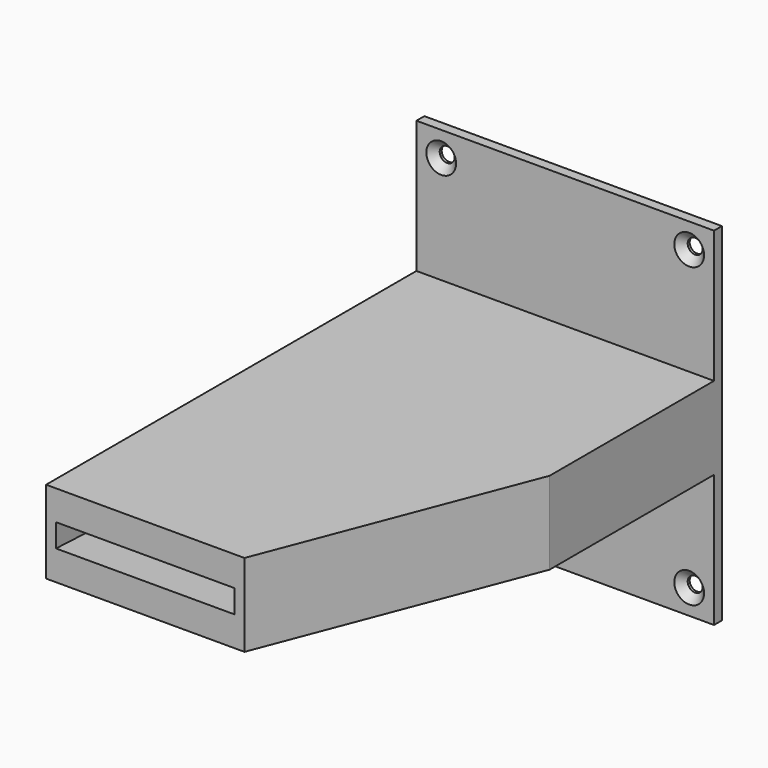
from build123d import *

# Parameters (mm, degrees)
PAD_DEPTH        = 25
SKETCH001_W      = 84
SKETCH001_H      = 19
SKETCH002_W      = 54
SKETCH002_H      = 7
SKETCH003_W      = 88.531874
SKETCH003_H      = 19
POCKET_DEPTH     = 5
SKETCH004_W      = 90
SKETCH004_H      = 105
PAD001_DEPTH     = 3
HOLE_D           = 4.5
HOLE_DEPTH       = 25
HOLE_CSINK_D     = 9
HOLE_CSINK_ANGLE = 90


with BuildPart() as part:
    # Sketch → Pad (new body)
    with BuildSketch(Plane.XY):
        Polygon((-45, 70), (-45, -21.531874), (-45, -70), (15, -70), (45, 7.838913), (45, 70), align=None)
    extrude(amount=PAD_DEPTH)

    # Sketch001 (on Face6 of Pad) → SubtractiveLoft section 0
    with BuildSketch(Plane(origin=(0, 70, 0), x_dir=(-1, 0, 0), z_dir=(0, 1, 0))):
        with Locations((0, 12.5)):
            Rectangle(SKETCH001_W, SKETCH001_H)
    # Sketch002 (on Face3 of Pad) → SubtractiveLoft section 1
    with BuildSketch(Plane.XZ.offset(70)):
        with Locations((-15, 12.5)):
            Rectangle(SKETCH002_W, SKETCH002_H)
    loft(mode=Mode.SUBTRACT)

    # Sketch003 (on Face1 of SubtractiveLoft) → Pocket (cut)
    with BuildSketch(Plane(origin=(-45, 0, 0), x_dir=(0, -1, 0), z_dir=(-1, 0, 0))):
        with Locations((-22.734063, 12.5)):
            Rectangle(SKETCH003_W, SKETCH003_H)
    extrude(amount=-POCKET_DEPTH, mode=Mode.SUBTRACT)

    # Sketch004 (on Face8 of Pocket) → Pad001 (join)
    with BuildSketch(Plane(origin=(0, 70, 0), x_dir=(-1, 0, 0), z_dir=(0, 1, 0))):
        with Locations((0, 12.5)):
            Rectangle(SKETCH004_W, SKETCH004_H)
    extrude(amount=PAD001_DEPTH)

    # Hole
    with Locations(Plane.XZ.offset(-70)):
        with Locations((-37.5, 57.5), (-37.5, -32.5)):
            hole = CounterSinkHole(HOLE_D / 2, HOLE_CSINK_D / 2, depth=HOLE_DEPTH, counter_sink_angle=HOLE_CSINK_ANGLE)

    # Mirrored: Hole across Sketch005 V_Axis
    add(hole.mirror(Plane(origin=(0, 70, 0), x_dir=(0, -1, 0), z_dir=(1, 0, 0))), mode=Mode.SUBTRACT)


solid = part.part
